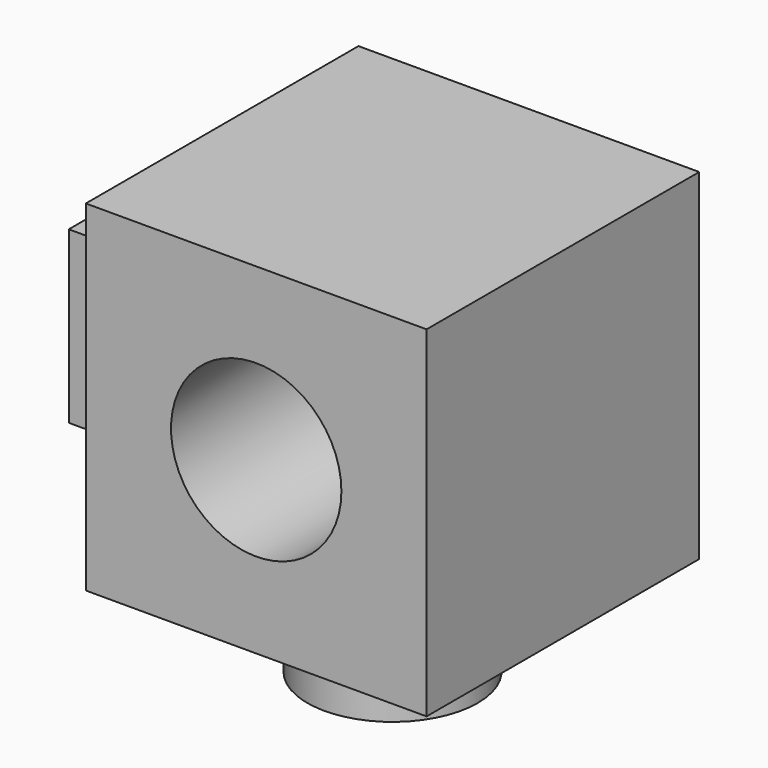
from build123d import *

# Parameters (mm, degrees)
F0_W     = 50.8
F0_H     = 50.8
F1_DEPTH = 25.4
F2_DEPTH = 25.4
F3_R     = 12.7
F4_DEPTH = 50.8
F5_R     = 12.7
F6_DEPTH = 12.7
F7_W     = 25.4
F7_H     = 25.4
F8_DEPTH = 12.7


with BuildPart() as f1:
    # F0 (on Front) → F1 (new body)
    with BuildSketch(Plane.XZ):
        with Locations((0, -0.01501)):
            Rectangle(F0_W, F0_H)
    extrude(amount=-F1_DEPTH)

    # F0 (on Front) → F2 (join)
    with BuildSketch(Plane.XZ):
        with Locations((0, -0.01501)):
            Rectangle(F0_W, F0_H)
    extrude(amount=F2_DEPTH)

    # F3 (on face) → F4 (cut)
    with BuildSketch(Plane.XZ.offset(25.4)):
        Circle(F3_R)
    extrude(amount=-F4_DEPTH, mode=Mode.SUBTRACT)

    # F5 (on face) → F6 (join)
    with BuildSketch(Plane(origin=(0, 0, -25.41501), x_dir=(1, 0, 0), z_dir=(0, 0, -1))):
        Circle(F5_R)
    extrude(amount=F6_DEPTH)

    # F7 (on face) → F8 (join)
    with BuildSketch(Plane(origin=(-25.4, 0, 0), x_dir=(0, -1, 0), z_dir=(-1, 0, 0))):
        Rectangle(F7_W, F7_H)
    extrude(amount=F8_DEPTH)


solid = f1.part
